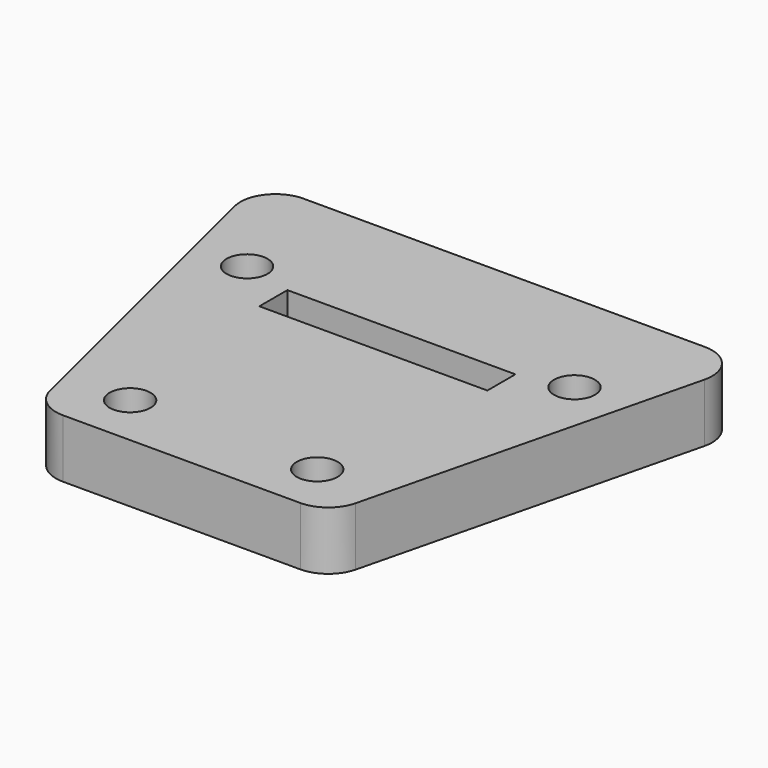
from build123d import *

# Parameters (mm, degrees)
PAD_DEPTH       = 5
SKETCH001_R     = 6
SKETCH001_R_2   = 3.8
POCKET_DEPTH    = 0.8
SKETCH004_W     = 19.5
SKETCH004_H     = 3
POCKET001_DEPTH = 5
SKETCH011_R     = 1.75
POCKET002_DEPTH = 5
FILLET_R        = 3


with BuildPart() as part:
    # Sketch → Pad (new body)
    with BuildSketch(Plane.XY):
        Polygon((-21, 22), (21, 22), (12.5, -12.5), (-12.5, -12.5), align=None)
    extrude(amount=PAD_DEPTH)

    # Sketch001 → Pocket (cut)
    with BuildSketch(Plane(origin=(0, 0, 0), x_dir=(1, 0, 0), z_dir=(0, 0, -1))):
        Circle(SKETCH001_R)
        Circle(SKETCH001_R_2, mode=Mode.SUBTRACT)
    extrude(amount=-POCKET_DEPTH, mode=Mode.SUBTRACT)

    # Sketch004 → Pocket001 (cut)
    with BuildSketch(Plane.XY.offset(5)):
        with Locations((0, 9.5)):
            Rectangle(SKETCH004_W, SKETCH004_H)
    extrude(amount=-POCKET001_DEPTH, mode=Mode.SUBTRACT)

    # Sketch011 → Pocket002 (cut)
    with BuildSketch(Plane(origin=(0, 0, 0), x_dir=(1, 0, 0), z_dir=(0, 0, -1))):
        with Locations((-8, 8)):
            Circle(SKETCH011_R)
        with Locations((8, 8)):
            Circle(SKETCH011_R)
        with Locations((-14, -12)):
            Circle(SKETCH011_R)
        with Locations((14, -12)):
            Circle(SKETCH011_R)
    extrude(amount=-POCKET002_DEPTH, mode=Mode.SUBTRACT)

    # Fillet
    fillet_edges = [part.edges().sort_by_distance(p)[0] for p in [
        (21, 22, 2.5),
        (-21, 22, 2.5),
        (-12.5, -12.5, 2.5),
        (12.5, -12.5, 2.5),
    ]]
    fillet(fillet_edges, radius=FILLET_R)


solid = part.part
